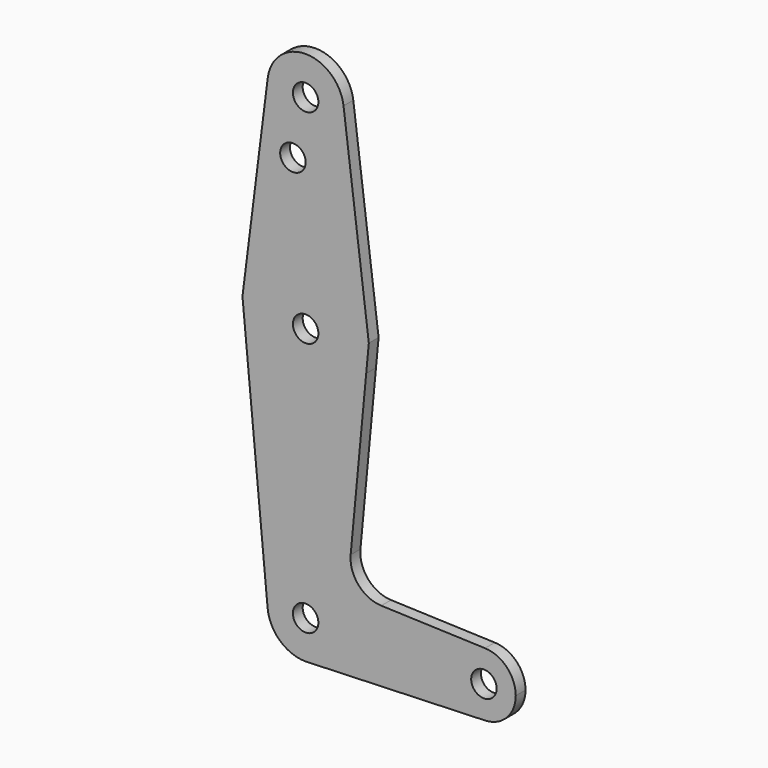
from build123d import *

# Parameters (mm, degrees)
F0_R     = 3.175
F1_DEPTH = 3.048


with BuildPart() as f1:
    # F0 (on Front) → F1 (new body)
    with BuildSketch(Plane.XZ):
        with BuildLine():
            Line((-9.450293, 115.490625), (-15.750488, 65.484375))
            ThreePointArc((-15.750488, 65.484375), (0, 79.375), (15.750488, 65.484375))
            Line((15.750488, 65.484375), (9.450293, 115.490625))
            ThreePointArc((9.450293, 115.490625), (9.506305, 114.896483), (9.525, 114.3))
            ThreePointArc((9.525, 114.3), (-0.596483, 104.793695), (-9.450293, 115.490625))
        make_face()
        with Locations((-3.175, 100.0252)):
            Circle(F0_R, mode=Mode.SUBTRACT)
        with BuildLine():
            ThreePointArc((9.450293, 115.490625), (0, 123.825), (-9.450293, 115.490625))
            ThreePointArc((-9.450293, 115.490625), (-0.596483, 104.793695), (9.525, 114.3))
            ThreePointArc((9.525, 114.3), (9.506305, 114.896483), (9.450293, 115.490625))
        make_face()
        with Locations((0, 114.3)):
            Circle(F0_R, mode=Mode.SUBTRACT)
        with BuildLine():
            Line((-15.750488, 65.484375), (-15.100703, 58.602614))
            ThreePointArc((-15.100703, 58.602614), (0, 47.625), (15.100703, 58.602614))
            Line((15.100703, 58.602614), (15.750488, 65.484375))
            ThreePointArc((15.750488, 65.484375), (0, 79.375), (-15.750488, 65.484375))
        make_face()
        with Locations((0, 63.5)):
            Circle(F0_R, mode=Mode.SUBTRACT)
        with BuildLine():
            ThreePointArc((-9.482822, -0.895381), (-0.448187, 9.51445), (9.525, 0))
            ThreePointArc((9.525, 0), (6.970557, -6.491299), (0.677344, -9.500886))
            Line((0.677344, -9.500886), (44.732405, -7.932475))
            ThreePointArc((44.732405, -7.932475), (36.5125, 0), (44.732405, 7.932475))
            Line((44.732405, 7.932475), (18.85624, 8.853696))
            ThreePointArc((18.85624, 8.853696), (13.164892, 11.553432), (11.224102, 17.546207))
            Line((11.224102, 17.546207), (15.100703, 58.602614))
            ThreePointArc((15.100703, 58.602614), (0, 47.625), (-15.100703, 58.602614))
            Line((-15.100703, 58.602614), (-9.482822, -0.895381))
        make_face()
        with BuildLine():
            ThreePointArc((0.677344, -9.500886), (6.970557, -6.491299), (9.525, 0))
            ThreePointArc((9.525, 0), (-0.448187, 9.51445), (-9.482822, -0.895381))
            ThreePointArc((-9.482822, -0.895381), (-6.410816, -7.044648), (0, -9.525))
            Line((0, -9.525), (0.677344, -9.500886))
        make_face()
        Circle(F0_R, mode=Mode.SUBTRACT)
        with BuildLine():
            ThreePointArc((44.732405, 7.932475), (36.5125, 0), (44.732405, -7.932475))
            ThreePointArc((44.732405, -7.932475), (50.161633, -5.51191), (52.3875, 0))
            ThreePointArc((52.3875, 0), (50.161633, 5.51191), (44.732405, 7.932475))
        make_face()
        with Locations((44.45, 0)):
            Circle(F0_R, mode=Mode.SUBTRACT)
    extrude(amount=F1_DEPTH)


solid = f1.part
